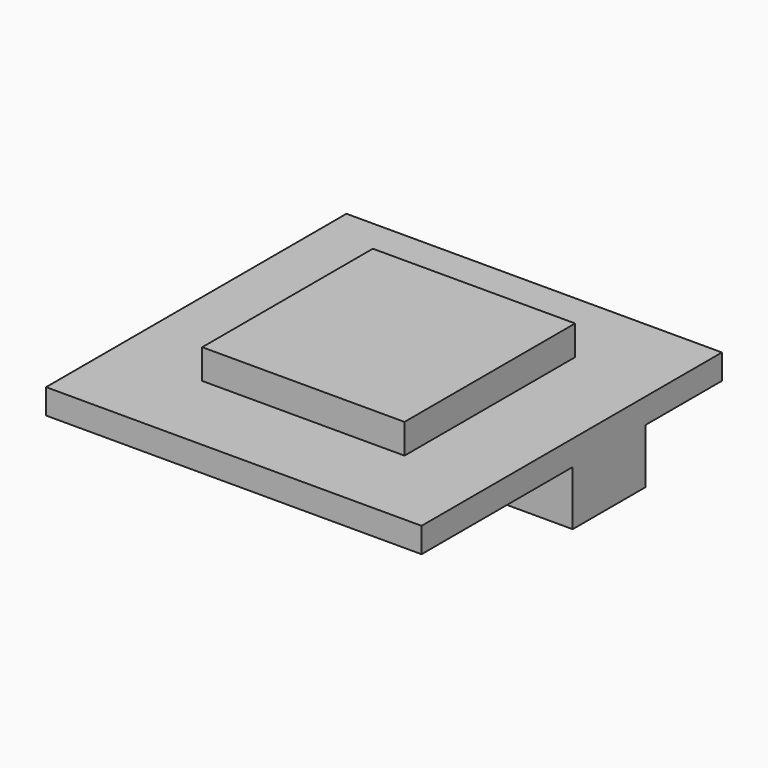
from build123d import *

# Parameters (mm, degrees)
F0_W     = 6.464736
F0_H     = 6.81608
F0_W_2   = 2.685256
F0_H_2   = 2.91172
F1_DEPTH = 0.8
F2_DEPTH = 1.75
F3_DEPTH = 1.75


with BuildPart() as f1:
    # F0 (on Top) → F1 (new body)
    with BuildSketch(Plane.XY):
        Polygon((5.88367, 5.962724), (-6.11633, 5.962724), (-6.11633, -6.037276), (5.88367, -6.037276), (5.88367, 0), (3.198414, 0), (3.198414, 2.91172), (5.88367, 2.91172), align=None)
        with Locations((-0.049542, 0.065831)):
            Rectangle(F0_W, F0_H, mode=Mode.SUBTRACT)
        with Locations((4.541042, 1.45586)):
            Rectangle(F0_W_2, F0_H_2)
        with Locations((-0.049542, 0.065831)):
            Rectangle(F0_W, F0_H)
    extrude(amount=F1_DEPTH)

    # F0 (on Top) → F2 (join)
    with BuildSketch(Plane.XY):
        with Locations((-0.049542, 0.065831)):
            Rectangle(F0_W, F0_H)
    extrude(amount=F2_DEPTH)

    # F0 (on Top) → F3 (join)
    with BuildSketch(Plane.XY):
        with Locations((4.541042, 1.45586)):
            Rectangle(F0_W_2, F0_H_2)
    extrude(amount=-F3_DEPTH)


solid = f1.part
